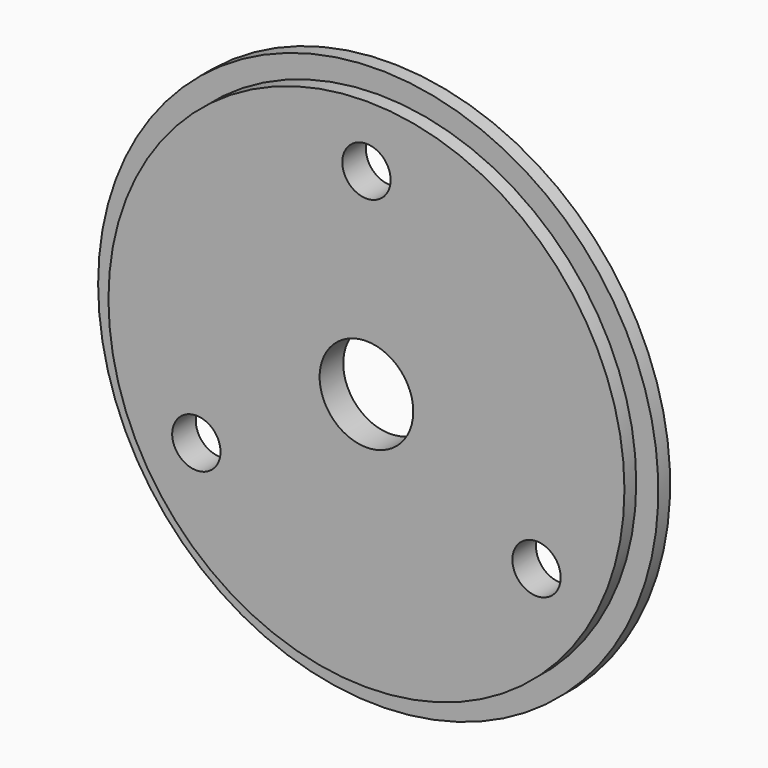
from build123d import *

# Parameters (mm, degrees)
F0_R     = 17.5
F1_DEPTH = 1
F2_R     = 19
F3_DEPTH = 1
F4_R     = 3.175
F5_DEPTH = 25.4
F6_R     = 1.6383
F7_DEPTH = 25.4


with BuildPart() as f1:
    # F0 (on Front) → F1 (new body)
    with BuildSketch(Plane.XZ):
        Circle(F0_R)
    extrude(amount=F1_DEPTH)

    # F2 (on face) → F3 (join)
    with BuildSketch(Plane(origin=(0, 0, 0), x_dir=(-1, 0, 0), z_dir=(0, 1, 0))):
        Circle(F2_R)
    extrude(amount=F3_DEPTH)

    # F4 (on face) → F5 (cut)
    with BuildSketch(Plane.XZ.offset(1)):
        Circle(F4_R)
    extrude(amount=-F5_DEPTH, mode=Mode.SUBTRACT)

    # F6 (on face) → F7 (cut)
    with BuildSketch(Plane.XZ.offset(1)):
        with Locations((0, 13.3217)):
            Circle(F6_R)
        with Locations((-11.536931, -6.66085)):
            Circle(F6_R)
        with Locations((11.536931, -6.66085)):
            Circle(F6_R)
    extrude(amount=-F7_DEPTH, mode=Mode.SUBTRACT)


solid = f1.part
